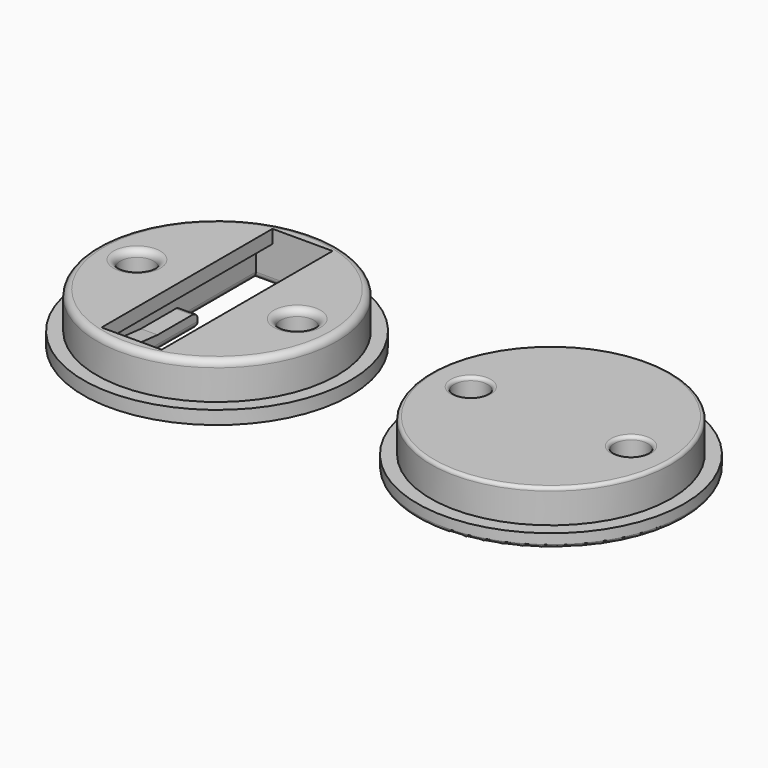
from build123d import *

# Parameters (mm, degrees)
SKETCH_R        = 40
PAD_DEPTH       = 4
SKETCH001_R     = 36
PAD001_DEPTH    = 11
SKETCH005_R     = 5
POCKET001_DEPTH = 15
SKETCH006_W     = 18
SKETCH006_H     = 64
POCKET002_DEPTH = 15
SKETCH007_W     = 28
SKETCH007_H     = 28
POCKET003_DEPTH = 11
SKETCH008_W     = 28
SKETCH008_H     = 6.5
POCKET004_DEPTH = 36
CHAMFER_1_SIZE2 = 2
CHAMFER_1_SIZE  = 21
CHAMFER_2_SIZE2 = 2
CHAMFER_2_SIZE  = 21
FILLET001_R     = 2
SKETCH002_R     = 40
PAD002_DEPTH    = 4
SKETCH003_R     = 36
PAD003_DEPTH    = 10
SKETCH004_R     = 5
POCKET_DEPTH    = 20
FILLET_R        = 1


with BuildPart() as hot_lid:
    # Sketch → Pad (new body)
    with BuildSketch(Plane.XY):
        Circle(SKETCH_R)
    extrude(amount=PAD_DEPTH)

    # Sketch001 (on Face3 of Pad) → Pad001 (join)
    with BuildSketch(Plane.XY.offset(4)):
        Circle(SKETCH001_R)
    extrude(amount=PAD001_DEPTH)

    # Sketch005 (on Face5 of Pad001) → Pocket001 (cut)
    with BuildSketch(Plane.XY.offset(15)):
        with Locations((-24, 0)):
            Circle(SKETCH005_R)
        with Locations((24, 0)):
            Circle(SKETCH005_R)
    extrude(amount=-POCKET001_DEPTH, mode=Mode.SUBTRACT)

    # Sketch006 (on Face7 of Pocket001) → Pocket002 (cut)
    with BuildSketch(Plane.XY.offset(15)):
        Rectangle(SKETCH006_W, SKETCH006_H)
    extrude(amount=-POCKET002_DEPTH, mode=Mode.SUBTRACT)

    # Sketch007 (on Face2 of Pocket002) → Pocket003 (cut)
    with BuildSketch(Plane(origin=(0, 0, 0), x_dir=(1, 0, 0), z_dir=(0, 0, -1))):
        with Locations((0, -18)):
            Rectangle(SKETCH007_W, SKETCH007_H)
    extrude(amount=-POCKET003_DEPTH, mode=Mode.SUBTRACT)

    # Sketch008 (on Face14 of Pocket003) → Pocket004 (cut)
    with BuildSketch(Plane(origin=(0, 4, 0), x_dir=(-1, 0, 0), z_dir=(0, 1, 0))):
        with Locations((0, 7.75)):
            Rectangle(SKETCH008_W, SKETCH008_H)
    extrude(amount=-POCKET004_DEPTH, mode=Mode.SUBTRACT)

    # Chamfer 1
    chamfer_1_edges = [hot_lid.edges().sort_by_distance(p)[0] for p in [
        (-11.5, -32, 4.5),
    ]]
    chamfer_1_side = hot_lid.faces().sort_by_distance((-11.5, -14, 4.5))[0]
    chamfer(chamfer_1_edges, length=CHAMFER_1_SIZE, length2=CHAMFER_1_SIZE2, reference=chamfer_1_side)

    # Chamfer 2
    chamfer_2_edges = [hot_lid.edges().sort_by_distance(p)[0] for p in [
        (11.5, -32, 4.5),
    ]]
    chamfer_2_side = hot_lid.faces().sort_by_distance((11.5, -14, 4.5))[0]
    chamfer(chamfer_2_edges, length=CHAMFER_2_SIZE, length2=CHAMFER_2_SIZE2, reference=chamfer_2_side)

    # Fillet001
    fillet001_edges = [hot_lid.edges().sort_by_distance(p)[0] for p in [
        (-29, 0, 0),
        (-29, 0, 15),
        (-36, 0, 15),
        (19, 0, 0),
        (-11.5, 4, 0),
        (-14, 18, 0),
        (11.5, 4, 0),
        (14, 18, 0),
        (-11.5, 4, 4.5),
        (11.5, 4, 4.5),
        (0, -32, 0),
        (-9, -14, 0),
        (9, -14, 0),
        (19, 0, 15),
        (0, 32, 0),
        (-11.5, 32, 0),
        (11.5, 32, 0),
    ]]
    fillet(fillet001_edges, radius=FILLET001_R)


with BuildPart() as cold_lid:
    # Sketch002 → Pad002 (new body)
    with BuildSketch(Plane.XY):
        Circle(SKETCH002_R)
    extrude(amount=PAD002_DEPTH)

    # Sketch003 (on Face3 of Pad002) → Pad003 (join)
    with BuildSketch(Plane.XY.offset(4)):
        Circle(SKETCH003_R)
    extrude(amount=PAD003_DEPTH)

    # Sketch004 (on Face5 of Pad003) → Pocket (cut)
    with BuildSketch(Plane.XY.offset(14)):
        with Locations((24, 0)):
            Circle(SKETCH004_R)
        with Locations((-24, 0)):
            Circle(SKETCH004_R)
    extrude(amount=-POCKET_DEPTH, mode=Mode.SUBTRACT)

    # Fillet
    fillet_edges = [cold_lid.edges().sort_by_distance(p)[0] for p in [
        (-29, 0, 14),
        (19, 0, 14),
        (-36, 0, 14),
        (-40, 0, 0),
        (-29, 0, 0),
        (19, 0, 0),
    ]]
    fillet(fillet_edges, radius=FILLET_R)


with BuildPart() as cold_lid_1:
    # Body001 placement: moved
    add(cold_lid.part.moved(Location((100, 0, 0))))


solid = Compound([hot_lid.part, cold_lid_1.part])
